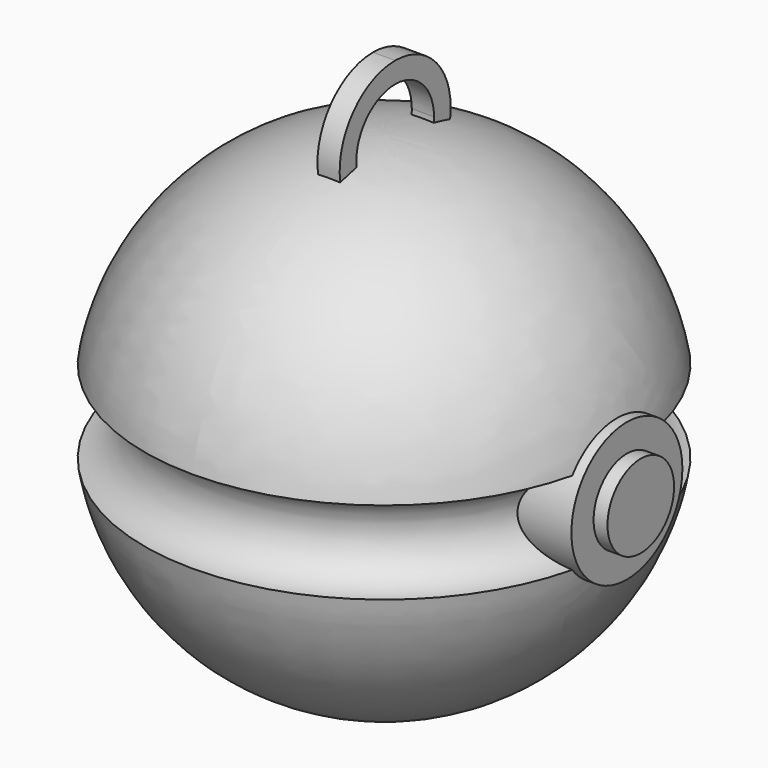
from build123d import *

# Parameters (mm, degrees)
F2_R     = 6.35
F3_DEPTH = 22.225
F4_R     = 3.81
F5_DEPTH = 1.27
F7_DEPTH = 1.016


with BuildPart() as f1:
    # F0 (on Right) → F1 (revolve)
    with BuildSketch(Plane.YZ):
        with BuildLine():
            ThreePointArc((-21.898429, 3.795978), (-18.415, 0), (-21.898429, -3.795978))
            ThreePointArc((-21.898429, -3.795978), (-14.310573, -17.00465), (0, -22.225))
            Line((0, -22.225), (0, 22.225))
            ThreePointArc((0, 22.225), (-14.310573, 17.00465), (-21.898429, 3.795978))
        make_face()
    revolve(axis=Axis((0, 0, -2.239906), (0, 0, -1)))

    # F2 (on Right) → F3 (join)
    with BuildSketch(Plane.YZ):
        Circle(F2_R)
    extrude(amount=F3_DEPTH)

    # F4 (on face) → F5 (join)
    with BuildSketch(Plane.YZ.offset(22.225)):
        Circle(F4_R)
    extrude(amount=F5_DEPTH)

    # F6 (on Right) → F7 (join, symmetric)
    with BuildSketch(Plane.YZ):
        with BuildLine():
            ThreePointArc((4.422719, 21.7805), (5.35879, 21.569284), (6.28487, 21.317857))
            ThreePointArc((6.28487, 21.317857), (6.333697, 21.770261), (6.35, 22.225))
            ThreePointArc((6.35, 22.225), (4.490128, 26.715128), (0, 28.575))
            Line((0, 28.575), (0, 26.67))
            ThreePointArc((0, 26.67), (3.14309, 25.36809), (4.445, 22.225))
            ThreePointArc((4.445, 22.225), (4.439426, 22.002471), (4.422719, 21.7805))
        make_face()
        with BuildLine():
            ThreePointArc((0, 15.875), (4.157051, 17.424851), (6.28487, 21.317857))
            ThreePointArc((6.28487, 21.317857), (5.35879, 21.569284), (4.422719, 21.7805))
            ThreePointArc((4.422719, 21.7805), (2.981797, 18.9285), (0, 17.78))
            Line((0, 17.78), (0, 15.875))
        make_face()
        with BuildLine():
            ThreePointArc((-6.28487, 21.317857), (-4.157051, 17.424851), (0, 15.875))
            Line((0, 15.875), (0, 17.78))
            ThreePointArc((0, 17.78), (-2.981797, 18.9285), (-4.422719, 21.7805))
            ThreePointArc((-4.422719, 21.7805), (-5.35879, 21.569284), (-6.28487, 21.317857))
        make_face()
        with BuildLine():
            Line((0, 26.67), (0, 28.575))
            ThreePointArc((0, 28.575), (-4.800149, 26.382051), (-6.28487, 21.317857))
            ThreePointArc((-6.28487, 21.317857), (-5.35879, 21.569284), (-4.422719, 21.7805))
            ThreePointArc((-4.422719, 21.7805), (-3.2965, 25.206797), (0, 26.67))
        make_face()
    extrude(amount=F7_DEPTH, both=True)


solid = f1.part
